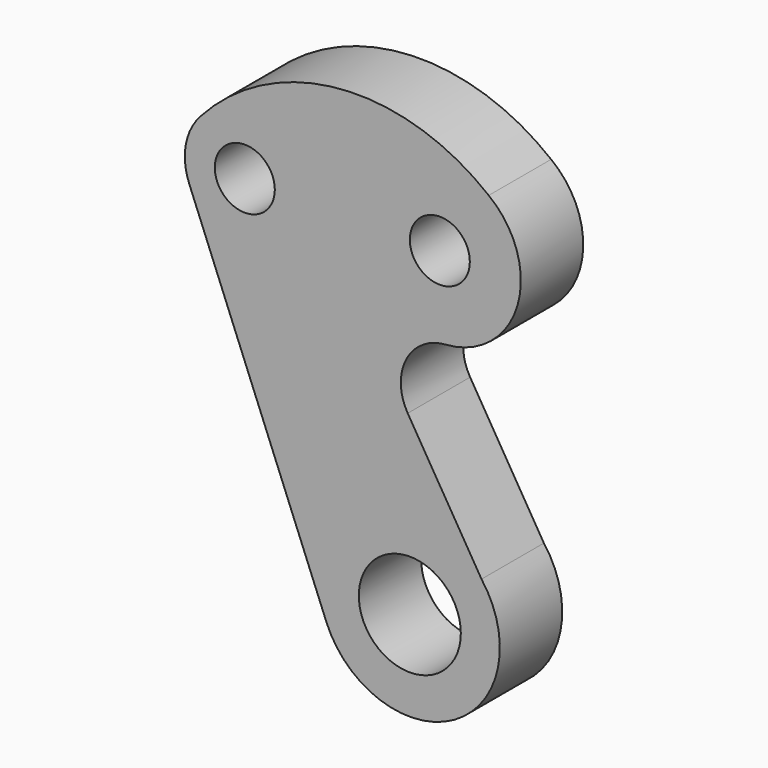
from build123d import *

# Parameters (mm, degrees)
F0_R     = 17
F0_R_2   = 10
F1_DEPTH = 26


with BuildPart() as f1:
    # F0 (on Front) → F1 (new body)
    with BuildSketch(Plane.XZ):
        with BuildLine():
            Line((-73.556583, 102.53989), (-27.834874, -11.190164))
            ThreePointArc((-27.834874, -11.190164), (14.80033, -26.095023), (23.88951, 18.146385))
            Line((23.88951, 18.146385), (-0.699871, 58.827717))
            Line((-0.699871, 58.827717), (-37.883752, 120.345727))
            ThreePointArc((-37.883752, 120.345727), (-52.886286, 129.887992), (-69.559346, 123.712237))
            ThreePointArc((-69.559346, 123.712237), (-74.652818, 113.710357), (-73.556583, 102.53989))
        make_face()
        Circle(F0_R, mode=Mode.SUBTRACT)
        with Locations((-55, 110)):
            Circle(F0_R_2, mode=Mode.SUBTRACT)
        with BuildLine():
            Line((-37.883752, 120.345727), (-0.699871, 58.827717))
            ThreePointArc((-0.699871, 58.827717), (-1.208181, 74.474703), (11.879405, 83.06549))
            ThreePointArc((11.879405, 83.06549), (35.878556, 102.299329), (26.299489, 131.525024))
            ThreePointArc((26.299489, 131.525024), (-23.184125, 146.687816), (-69.559346, 123.712237))
            ThreePointArc((-69.559346, 123.712237), (-52.886286, 129.887992), (-37.883752, 120.345727))
        make_face()
        with Locations((10, 110)):
            Circle(F0_R_2, mode=Mode.SUBTRACT)
    extrude(amount=F1_DEPTH)


solid = f1.part
